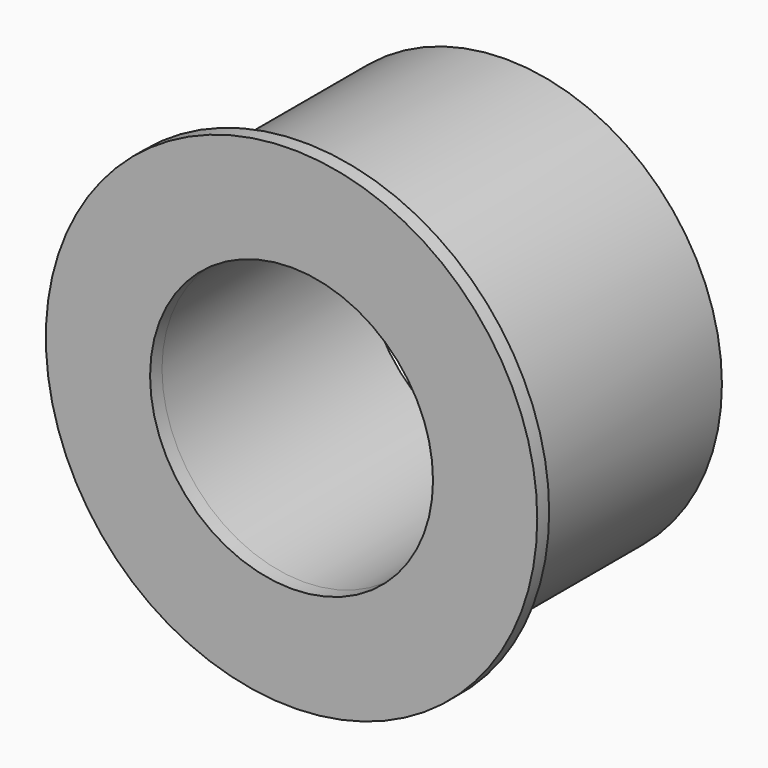
from build123d import *

# Parameters (mm, degrees)
F0_R     = 16.5
F0_R_2   = 14.5
F0_R_3   = 9.5
F1_DEPTH = 1
F2_DEPTH = 17


with BuildPart() as f1:
    # F0 (on Front) → F1 (new body)
    with BuildSketch(Plane.XZ):
        Circle(F0_R)
        Circle(F0_R_2, mode=Mode.SUBTRACT)
        Circle(F0_R_2)
        Circle(F0_R_3, mode=Mode.SUBTRACT)
    extrude(amount=F1_DEPTH)

    # F0 (on Front) → F2 (join)
    with BuildSketch(Plane.XZ):
        Circle(F0_R_2)
        Circle(F0_R_3, mode=Mode.SUBTRACT)
    extrude(amount=-F2_DEPTH)


solid = f1.part
